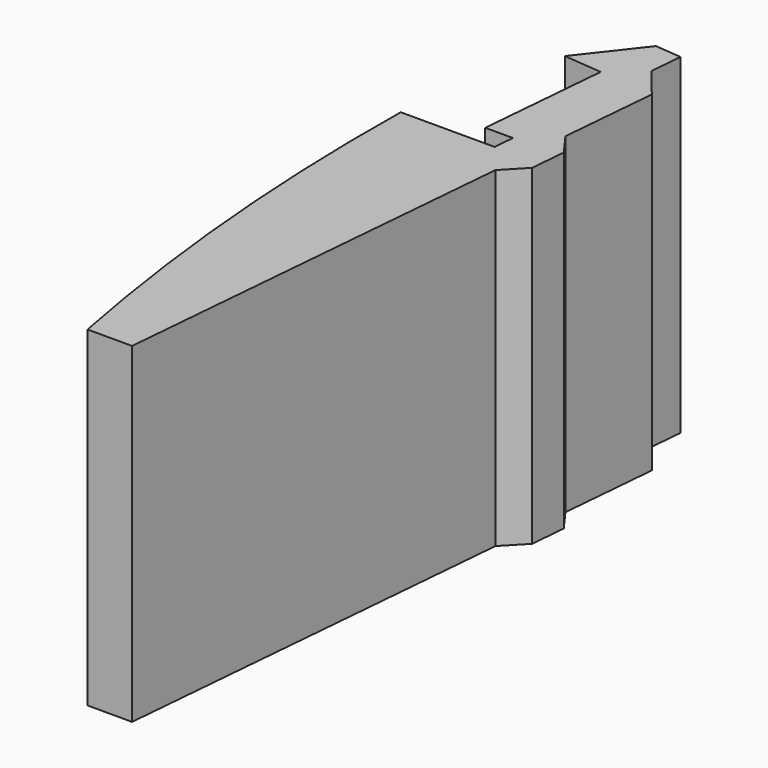
from build123d import *

# Parameters (mm, degrees)
F1_DEPTH = 60


with BuildPart() as f1:
    # F0 (on Top) → F1 (new body)
    with BuildSketch(Plane.XY):
        Polygon((-37.77854, 46.809994), (-32.797566, 46.374216), (-32.349713, 51.493207), (-31.828278, 57.453238), (-36.618262, 57.872308), (-44.77854, 47.422415), align=None)
        Polygon((-32.349713, 51.493207), (-32.797566, 46.374216), (-27.816593, 45.938437), align=None)
        Polygon((-39.841805, 23.226772), (-34.822705, 23.226772), (-32.797566, 46.374216), (-37.77854, 46.809994), align=None)
        Polygon((-35.150788, 19.476772), (-52.150788, 19.476772), (-45.178328, -60.218804), (-37.104148, -60.218804), (-30.610643, 14.002301), (-30.189987, 18.810422), (-29.360409, 28.292544), (-27.816593, 45.938437), (-32.797566, 46.374216), (-34.822705, 23.226772), align=None)
        Polygon((-30.189987, 18.810422), (-30.610643, 14.002301), (-26.987346, 17.784758), (-26.421964, 24.247109), (-29.360409, 28.292544), align=None)
        with BuildLine():
            Line((-45.178328, -60.218804), (-52.150788, 19.476772))
            ThreePointArc((-52.150788, 19.476772), (-50.747534, -20.553253), (-45.178328, -60.218804))
        make_face()
    extrude(amount=F1_DEPTH)


solid = f1.part
